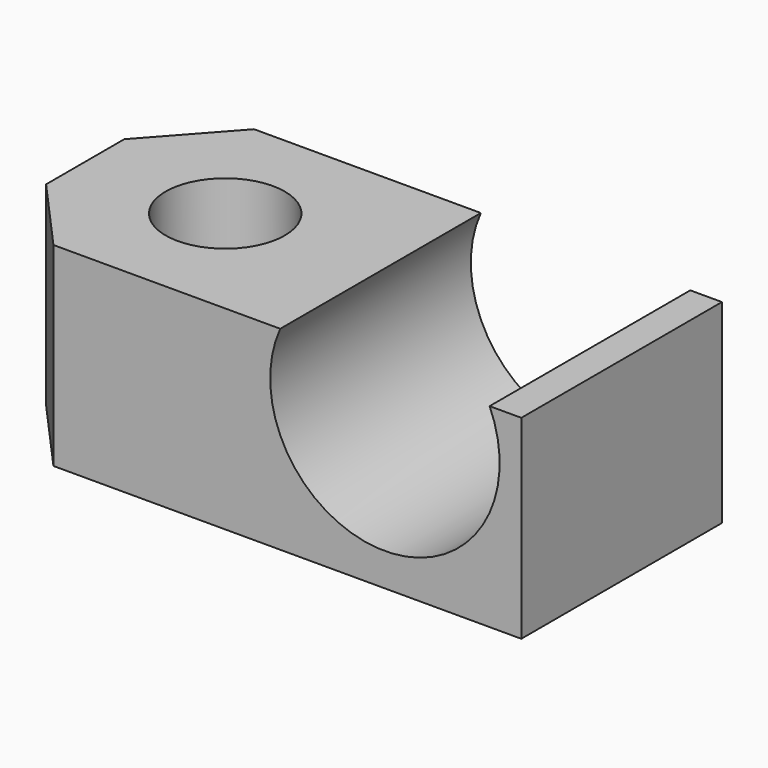
from build123d import *

# Parameters (mm, degrees)
F0_W          = 152.138144
F0_H          = 55.172988
F1_DEPTH      = 35.56
F1_DEPTH_BACK = 35.56
F2_R          = 32.536821
F3_DEPTH      = 74.65833
F4_R          = 16.891658
F5_DEPTH      = 60.75289
F7_DEPTH      = 58.39537


with BuildPart() as f1:
    # F0 (on Front) → F1 (new body, two sides)
    with BuildSketch(Plane.XZ) as f1_sk:
        Rectangle(F0_W, F0_H)
    extrude(amount=F1_DEPTH)
    extrude(f1_sk.sketch, amount=-F1_DEPTH_BACK)

    # F2 (on face) → F3 (cut)
    with BuildSketch(Plane.XZ.offset(35.56)):
        with Locations((37.392992, 14.286671)):
            Circle(F2_R)
    extrude(amount=-F3_DEPTH, mode=Mode.SUBTRACT)

    # F4 (on face) → F5 (cut)
    with BuildSketch(Plane.XY.offset(27.586494)):
        with Locations((-36.354639, 0)):
            Circle(F4_R)
    extrude(amount=-F5_DEPTH, mode=Mode.SUBTRACT)

    # F6 (on face) → F7 (cut)
    with BuildSketch(Plane.XY.offset(27.586494)):
        Polygon((-76.069072, -13.85648), (-76.069072, -35.56), (-56.617878, -35.56), align=None)
        Polygon((-76.069072, 13.85648), (-56.617878, 35.56), (-76.069072, 35.56), align=None)
    extrude(amount=-F7_DEPTH, mode=Mode.SUBTRACT)


solid = f1.part
